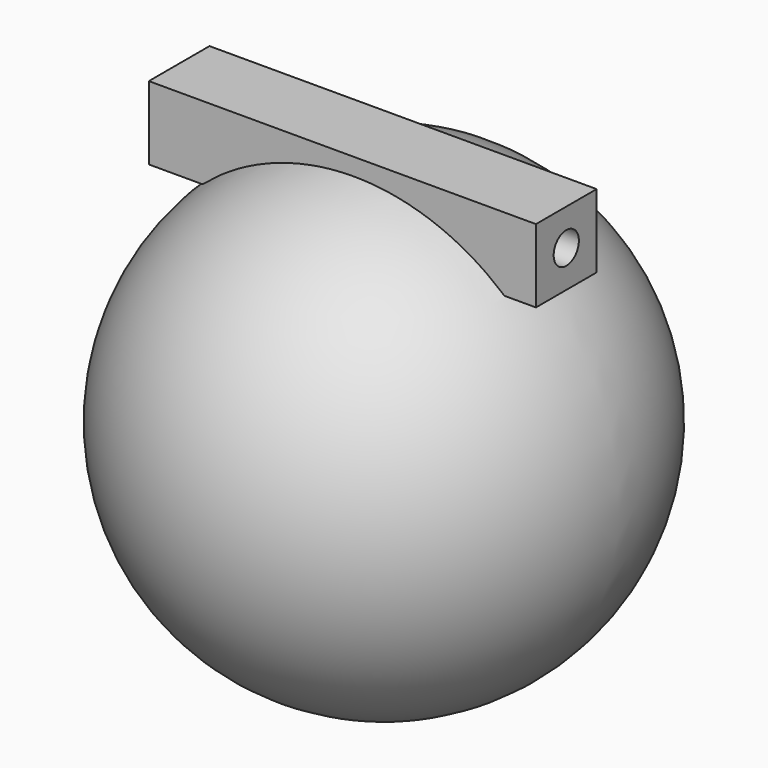
from build123d import *

# Parameters (mm, degrees)
F2_W     = 38.898766
F2_H     = 7.372967
F3_DEPTH = 3.81
F4_R     = 1.58321
F5_DEPTH = 22.86


with BuildPart() as f1:
    # F0 (on Front) → F1 (revolve)
    with BuildSketch(Plane.XZ):
        with BuildLine():
            Line((0, 47.11812), (0, 0))
            ThreePointArc((0, 0), (23.55906, 23.55906), (0, 47.11812))
        make_face()
    revolve(axis=Axis((0, 0, 23.55906), (0, 0, 1)))

    # F2 (on Front) → F3 (join, symmetric)
    with BuildSketch(Plane.XZ):
        with Locations((-1.117459, 44.860396)):
            Rectangle(F2_W, F2_H)
    extrude(amount=F3_DEPTH, both=True)

    # F4 (on Right) → F5 (cut, symmetric)
    with BuildSketch(Plane.YZ):
        with Locations((0, 44.889353)):
            Circle(F4_R)
    extrude(amount=F5_DEPTH, both=True, mode=Mode.SUBTRACT)


solid = f1.part
